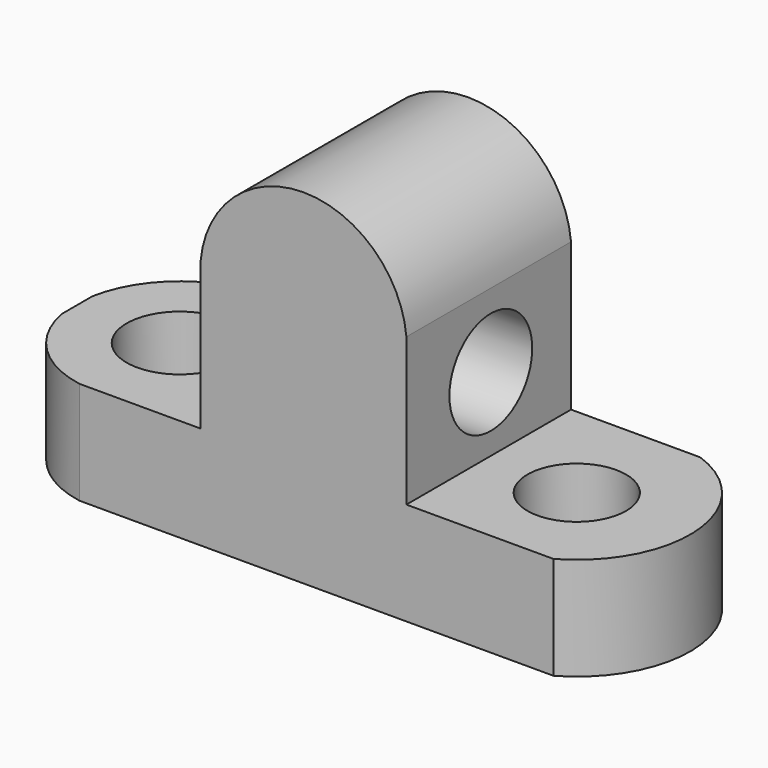
from build123d import *

# Parameters (mm, degrees)
F1_DEPTH  = 25.4
F3_DEPTH  = 25.4
F5_DEPTH  = 25.4
F7_DEPTH  = 25.4
F8_R      = 6.567991
F9_DEPTH  = 25.4
F10_R     = 6.086179
F11_DEPTH = 25.4
F12_R     = 6.384731
F13_DEPTH = 25.4


with BuildPart() as f1:
    # F0 (on Front) → F1 (new body)
    with BuildSketch(Plane.XZ):
        Polygon((0, 12.7), (0, 0), (76.2, 0), (76.2, 12.7), (50.8, 12.7), (50.8, 44.45), (25.4, 44.45), (25.4, 12.7), align=None)
    extrude(amount=F1_DEPTH)

    # F2 (on face) → F3 (cut)
    with BuildSketch(Plane.XZ.offset(25.4)):
        with BuildLine():
            ThreePointArc((25.4, 30.930717), (38.1, 42.507362), (50.8, 30.930717))
            Line((50.8, 30.930717), (50.8, 44.45))
            Line((50.8, 44.45), (25.4, 44.45))
            Line((25.4, 44.45), (25.4, 30.930717))
        make_face()
    extrude(amount=-F3_DEPTH, mode=Mode.SUBTRACT)

    # F4 (on face) → F5 (cut)
    with BuildSketch(Plane.XY.offset(12.7)):
        with BuildLine():
            ThreePointArc((0, -10.345371), (3.606994, -3.535954), (10.453569, 0))
            Line((10.453569, 0), (0, 0))
            Line((0, 0), (0, -10.345371))
        make_face()
        with BuildLine():
            ThreePointArc((10.453569, -25.4), (3.606994, -21.864046), (0, -15.054629))
            Line((0, -15.054629), (0, -25.4))
            Line((0, -25.4), (10.453569, -25.4))
        make_face()
    extrude(amount=-F5_DEPTH, mode=Mode.SUBTRACT)

    # F6 (on face) → F7 (cut)
    with BuildSketch(Plane.XY.offset(12.7)):
        with BuildLine():
            ThreePointArc((66.74201, 0), (76.021911, -11.988349), (68.953343, -25.4))
            Line((68.953343, -25.4), (76.2, -25.4))
            Line((76.2, -25.4), (76.2, 0))
            Line((76.2, 0), (66.74201, 0))
        make_face()
    extrude(amount=-F7_DEPTH, mode=Mode.SUBTRACT)

    # F8 (on face) → F9 (cut)
    with BuildSketch(Plane.XY.offset(12.7)):
        with Locations((12.676189, -12.7)):
            Circle(F8_R)
    extrude(amount=-F9_DEPTH, mode=Mode.SUBTRACT)

    # F10 (on face) → F11 (cut)
    with BuildSketch(Plane.XY.offset(12.7)):
        with Locations((62.069037, -13.20309)):
            Circle(F10_R)
    extrude(amount=-F11_DEPTH, mode=Mode.SUBTRACT)

    # F12 (on face) → F13 (cut)
    with BuildSketch(Plane(origin=(25.4, 0, 0), x_dir=(0, -1, 0), z_dir=(-1, 0, 0))):
        with Locations((12.376302, 21.793298)):
            Circle(F12_R)
    extrude(amount=-F13_DEPTH, mode=Mode.SUBTRACT)


solid = f1.part
